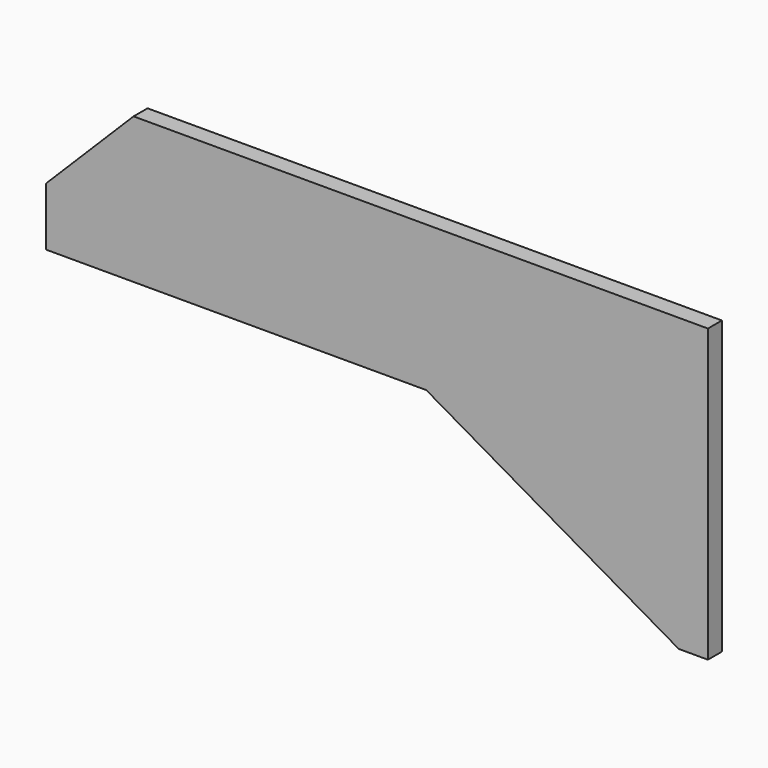
from build123d import *

# Parameters (mm, degrees)
F1_DEPTH = 3
F2_SIZE  = 30


with BuildPart() as f1:
    # F0 (on Front) → F1 (new body, symmetric)
    with BuildSketch(Plane.XZ):
        Polygon((0, -50), (0, 50), (-227, 50), (-227, 0), (-96.60254, 0), (-10, -50), align=None)
    extrude(amount=F1_DEPTH, both=True)

    # F2
    f2_edges = [f1.edges().sort_by_distance(p)[0] for p in [
        (-227, 0, 50),
    ]]
    chamfer(f2_edges, length=F2_SIZE)


solid = f1.part
